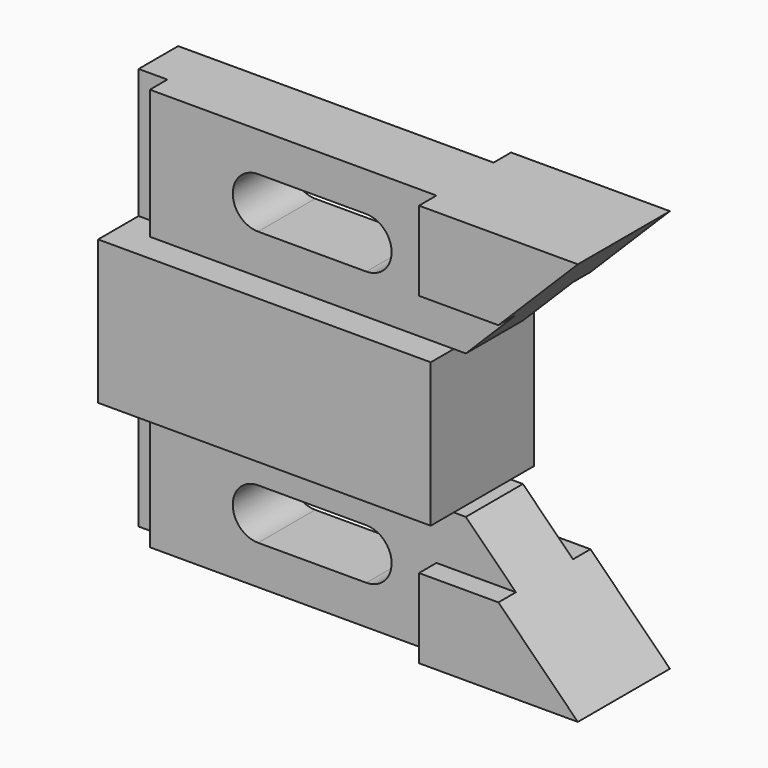
from build123d import *

# Parameters (mm, degrees)
F1_DEPTH = 14.224
F0_W     = 6.35
F0_H     = 28.575
F2_DEPTH = 7.874
F3_DEPTH = 7.874
F4_DEPTH = 12.7
F5_W     = 6.35
F5_H     = 28.575
F6_DEPTH = 4.826
F7_W     = 6.35
F7_H     = 28.575
F8_DEPTH = 4.826


with BuildPart() as f1:
    # F0 (on Front) → F1 (new body, symmetric)
    with BuildSketch(Plane.XZ):
        Polygon((0, 60.325), (0, 28.575), (6.35, 28.575), (73.406, 28.575), (73.406, 60.325), (6.35, 60.325), align=None)
    extrude(amount=F1_DEPTH, both=True)

    # F0 (on Front) → F2 (join, symmetric)
    with BuildSketch(Plane.XZ):
        Polygon((6.35, 88.9), (6.35, 60.325), (73.406, 60.325), (76.073, 60.325), (87.122, 71.374), (69.596, 71.374), (69.596, 88.9), align=None)
        with BuildLine():
            ThreePointArc((30.226, 69.088), (24.638, 74.676), (30.226, 80.264))
            Line((30.226, 80.264), (54.102, 80.264))
            ThreePointArc((54.102, 80.264), (59.69, 74.676), (54.102, 69.088))
            Line((54.102, 69.088), (30.226, 69.088))
        make_face(mode=Mode.SUBTRACT)
        with Locations((3.175, 74.6125)):
            Rectangle(F0_W, F0_H)
    extrude(amount=F2_DEPTH, both=True)

    # F0 (on Front) → F3 (join, symmetric)
    with BuildSketch(Plane.XZ):
        Polygon((6.35, 28.575), (6.35, 0), (69.596, 0), (69.596, 17.526), (87.122, 17.526), (76.073, 28.575), (73.406, 28.575), align=None)
        with BuildLine():
            ThreePointArc((30.226, 8.636), (24.638, 14.224), (30.226, 19.812))
            Line((30.226, 19.812), (54.102, 19.812))
            ThreePointArc((54.102, 19.812), (59.69, 14.224), (54.102, 8.636))
            Line((54.102, 8.636), (30.226, 8.636))
        make_face(mode=Mode.SUBTRACT)
        with Locations((3.175, 14.2875)):
            Rectangle(F0_W, F0_H)
    extrude(amount=F3_DEPTH, both=True)

    # F0 (on Front) → F4 (join, symmetric)
    with BuildSketch(Plane.XZ):
        Polygon((104.648, 88.9), (69.596, 88.9), (69.596, 71.374), (87.122, 71.374), align=None)
        Polygon((69.596, 17.526), (69.596, 0), (104.648, 0), (87.122, 17.526), align=None)
    extrude(amount=F4_DEPTH, both=True)

    # F5 (on face) → F6 (cut)
    with BuildSketch(Plane.XZ.offset(7.874)):
        with Locations((3.175, 14.2875)):
            Rectangle(F5_W, F5_H)
    extrude(amount=-F6_DEPTH, mode=Mode.SUBTRACT)

    # F7 (on face) → F8 (cut)
    with BuildSketch(Plane.XZ.offset(7.874)):
        with Locations((3.175, 74.6125)):
            Rectangle(F7_W, F7_H)
    extrude(amount=-F8_DEPTH, mode=Mode.SUBTRACT)


solid = f1.part
